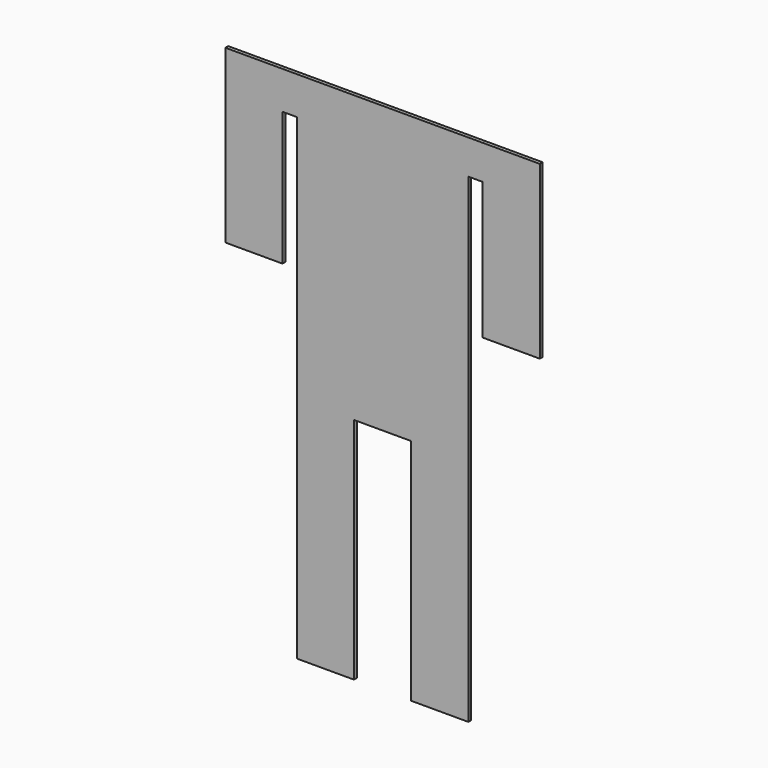
from build123d import *

# Parameters (mm, degrees)
F0_W     = 50.8
F0_H     = 203.2
F0_W_2   = 12.7
F0_H_2   = 33.562137
F0_H_3   = 30.591203
F1_DEPTH = 3.175


with BuildPart() as f1:
    # F0 (on Front) → F1 (new body)
    with BuildSketch(Plane.XZ):
        Polygon((-300.049083, 117.697145), (-300.049083, 66.897145), (-249.249083, 66.897145), (-198.449083, 66.897145), (-147.649083, 66.897145), (-147.649083, 117.697145), align=None)
        with Locations((-274.649083, -34.702855)):
            Rectangle(F0_W, F0_H)
        Polygon((-300.049083, 287.335008), (-300.049083, 117.697145), (-147.649083, 117.697145), (-147.649083, 290.305942), (-147.649083, 320.897145), (-300.049083, 320.897145), align=None)
        with Locations((-173.049083, -34.702855)):
            Rectangle(F0_W, F0_H)
        with Locations((-306.399083, 304.116076)):
            Rectangle(F0_W_2, F0_H_2)
        with Locations((-141.299083, 305.601543)):
            Rectangle(F0_W_2, F0_H_3)
        Polygon((-312.749083, 168.497145), (-312.749083, 287.335008), (-312.749083, 320.897145), (-363.549083, 320.897145), (-363.549083, 168.497145), align=None)
        Polygon((-134.949083, 320.897145), (-134.949083, 290.305942), (-134.949083, 168.497145), (-84.149083, 168.497145), (-84.149083, 320.897145), align=None)
    extrude(amount=F1_DEPTH)


solid = f1.part
